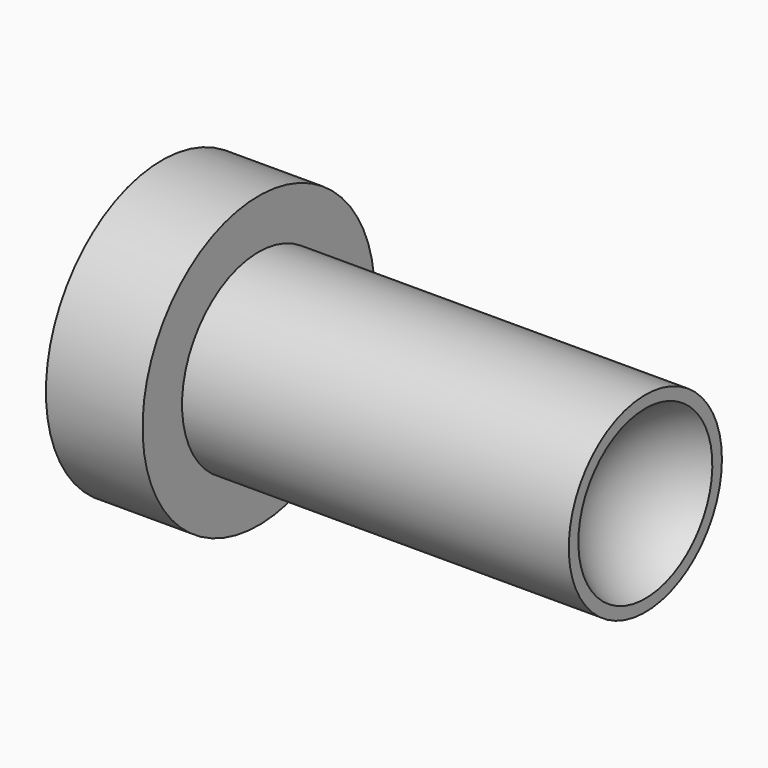
from build123d import *

# Parameters (mm, degrees)
F0_R     = 19.05
F1_DEPTH = 12.7
F2_R     = 12.573
F3_DEPTH = 50.8


with BuildPart() as f1:
    # F0 (on Right) → F1 (new body)
    with BuildSketch(Plane.YZ):
        Circle(F0_R)
    extrude(amount=-F1_DEPTH)

    # F2 (on Right) → F3 (join)
    with BuildSketch(Plane.YZ):
        Circle(F2_R)
    extrude(amount=F3_DEPTH)

    # F4 (on Front) → F5 (revolve, cut)
    with BuildSketch(Plane.XZ):
        with BuildLine():
            ThreePointArc((69.85, 0), (57.15, 12.7), (44.45, 0))
            Line((44.45, 0), (69.85, 0))
        make_face()
    revolve(axis=Axis((65.702231, 0, 0), (1, 0, 0)), mode=Mode.SUBTRACT)


solid = f1.part
